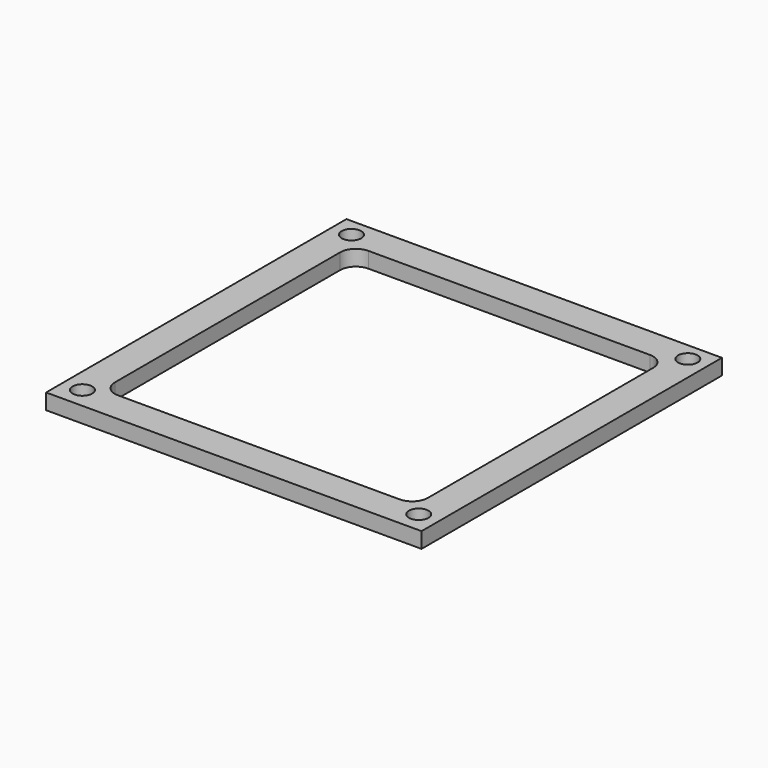
from build123d import *

# Parameters (mm, degrees)
F0_W     = 152.4
F0_H     = 152.4
F0_R     = 3.96875
F1_DEPTH = 6.35


with BuildPart() as f1:
    # F0 (on Top) → F1 (new body)
    with BuildSketch(Plane.XY):
        with Locations((76.2, 76.2)):
            Rectangle(F0_W, F0_H)
        with Locations((7.9375, 8.49987)):
            Circle(F0_R, mode=Mode.SUBTRACT)
        with BuildLine():
            Line((133.35, 12.7), (19.05, 12.7))
            ThreePointArc((19.05, 12.7), (14.559872, 14.559872), (12.7, 19.05))
            Line((12.7, 19.05), (12.7, 133.35))
            ThreePointArc((12.7, 133.35), (14.559872, 137.840128), (19.05, 139.7))
            Line((19.05, 139.7), (133.35, 139.7))
            ThreePointArc((133.35, 139.7), (137.840128, 137.840128), (139.7, 133.35))
            Line((139.7, 133.35), (139.7, 19.05))
            ThreePointArc((139.7, 19.05), (137.840128, 14.559872), (133.35, 12.7))
        make_face(mode=Mode.SUBTRACT)
        with Locations((144.4625, 8.49987)):
            Circle(F0_R, mode=Mode.SUBTRACT)
        with Locations((7.9375, 145.02487)):
            Circle(F0_R, mode=Mode.SUBTRACT)
        with Locations((144.4625, 145.02487)):
            Circle(F0_R, mode=Mode.SUBTRACT)
    extrude(amount=F1_DEPTH)


solid = f1.part
